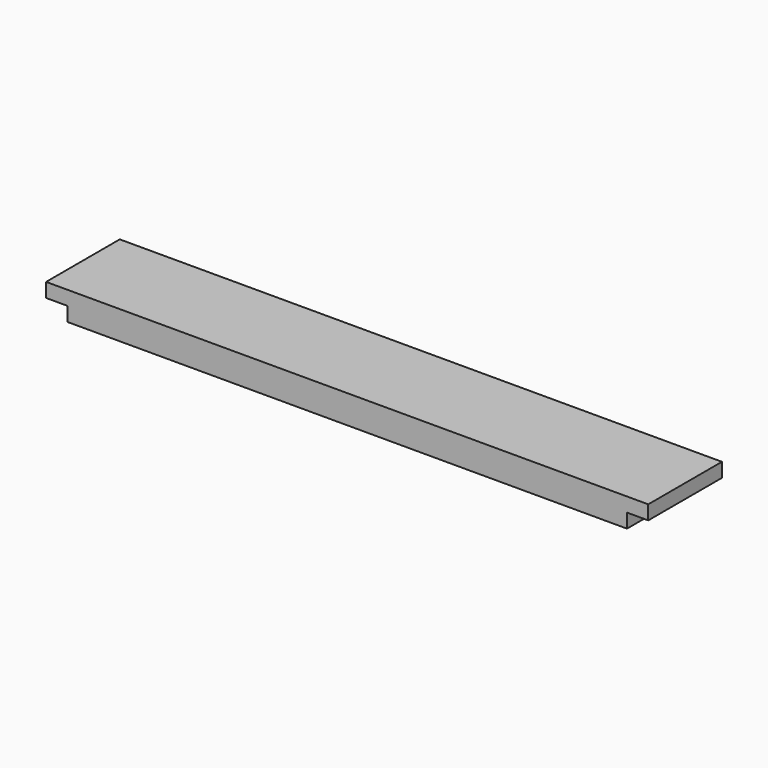
from build123d import *

# Parameters (mm, degrees)
F0_W     = 501.65
F0_H     = 82.55
F0_W_2   = 19.05
F0_H_2   = 19.05
F1_DEPTH = 12.7
F2_DEPTH = 25.4
F3_DEPTH = 12.7


with BuildPart() as f1:
    # F0 (on Top) → F1 (new body)
    with BuildSketch(Plane.XY):
        with Locations((-50.692200847, -66.2992455751)):
            Rectangle(F0_W, F0_H)
        with Locations((-311.042200847, -66.2992455751)):
            Rectangle(F0_W_2, F0_H)
        with Locations((-50.692200847, -15.4992455751)):
            Rectangle(F0_W, F0_H_2)
        with Locations((209.657799153, -66.2992455751)):
            Rectangle(F0_W_2, F0_H)
    extrude(amount=F1_DEPTH)

    # F0 (on Top) → F2 (join)
    with BuildSketch(Plane.XY):
        with Locations((-50.692200847, -66.2992455751)):
            Rectangle(F0_W, F0_H)
        with Locations((-311.042200847, -66.2992455751)):
            Rectangle(F0_W_2, F0_H)
        with Locations((209.657799153, -66.2992455751)):
            Rectangle(F0_W_2, F0_H)
    extrude(amount=F2_DEPTH)

    # F0 (on Top) → F3 (cut)
    with BuildSketch(Plane.XY):
        with Locations((-311.042200847, -66.2992455751)):
            Rectangle(F0_W_2, F0_H)
        with Locations((209.657799153, -66.2992455751)):
            Rectangle(F0_W_2, F0_H)
    extrude(amount=F3_DEPTH, mode=Mode.SUBTRACT)


solid = f1.part
